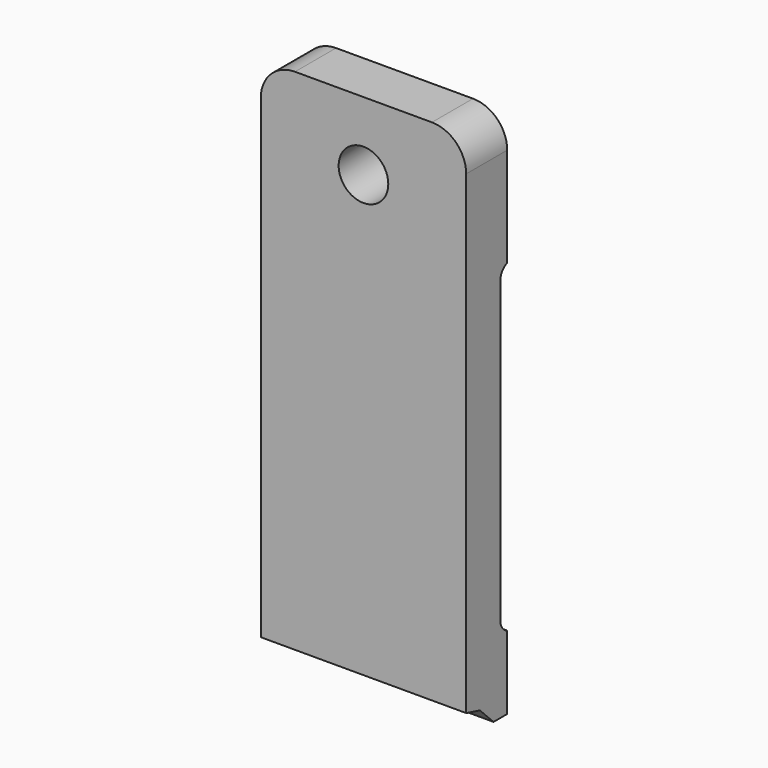
from build123d import *

# Parameters (mm, degrees)
PAD086_DEPTH         = 6
FILLET016_R          = 2
SKETCH380_R          = 1.45
POCKET260_DEPTH      = 18.001
POCKET260_DEPTH_BACK = 0.001


with BuildPart() as part:
    # Sketch351 → Pad086 (new body, symmetric)
    with BuildSketch(Plane.YZ):
        with BuildLine():
            Line((15, 58), (18, 58))
            Line((18, 58), (18, 50.207107))
            ThreePointArc((18, 50.207107), (17.637628, 49.933013), (17.5, 49.5))
            Line((17.5, 49.5), (17.5, 32))
            ThreePointArc((17.5, 32), (17.637628, 31.566987), (18, 31.292893))
            Line((18, 31.292893), (18, 28))
            Line((18, 28), (18, 27))
            Line((18, 27), (17, 27))
            Line((17, 27), (16, 28))
            Line((15, 28.267949), (16, 28))
            Line((15, 58), (15, 28.267949))
        make_face()
    extrude(amount=PAD086_DEPTH, both=True)

    # Fillet016
    fillet016_edges = [part.edges().sort_by_distance(p)[0] for p in [
        (6, 16.5, 58),
        (-6, 16.5, 58),
    ]]
    fillet(fillet016_edges, radius=FILLET016_R)

    # Sketch380 → Pocket260 (cut, two sides)
    with BuildSketch(Plane.XZ) as pocket260_sk:
        with Locations((0, 54)):
            Circle(SKETCH380_R)
    extrude(amount=-POCKET260_DEPTH, mode=Mode.SUBTRACT)
    extrude(pocket260_sk.sketch, amount=POCKET260_DEPTH_BACK, mode=Mode.SUBTRACT)


solid = part.part
